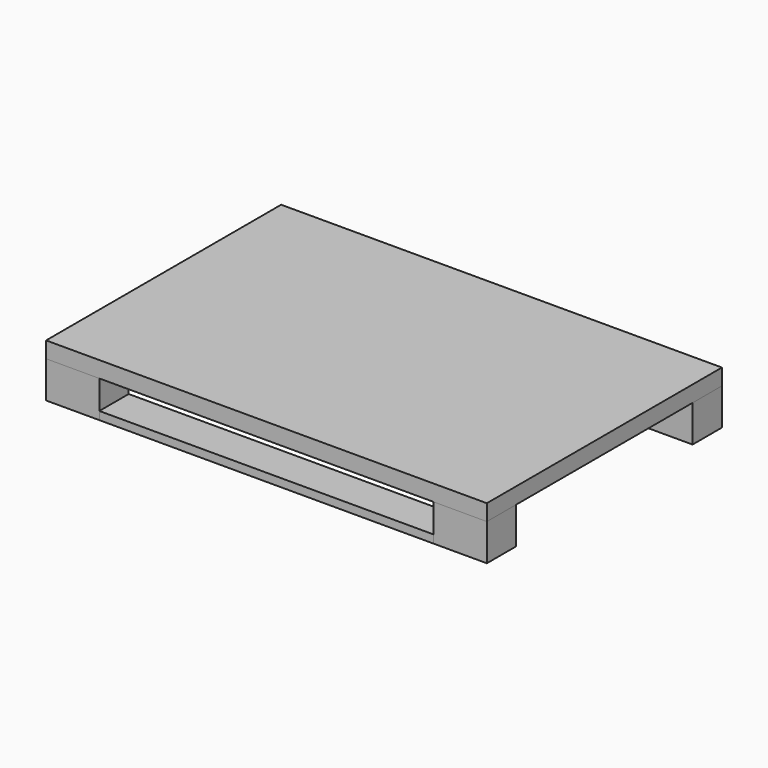
from build123d import *

# Parameters (mm, degrees)
F0_W     = 910
F0_H     = 100
F1_DEPTH = 22
F0_W_2   = 145
F2_DEPTH = 100
F3_W     = 1200
F3_H     = 800
F4_DEPTH = 44


with BuildPart() as f1:
    # F0 (on Top) → F1 (new body)
    with BuildSketch(Plane.XY):
        with Locations((0, 350)):
            Rectangle(F0_W, F0_H)
    extrude(amount=F1_DEPTH)


with BuildPart() as f1b:
    # F0 (on Top) → F1, piece 2 (new body)
    with BuildSketch(Plane.XY):
        with Locations((0, -350)):
            Rectangle(F0_W, F0_H)
    extrude(amount=F1_DEPTH)


with BuildPart() as f2:
    # F0 (on Top) → F2 (new body)
    with BuildSketch(Plane.XY):
        with Locations((527.5, -350)):
            Rectangle(F0_W_2, F0_H)
    extrude(amount=F2_DEPTH)


with BuildPart() as f2b:
    # F0 (on Top) → F2, piece 2 (new body)
    with BuildSketch(Plane.XY):
        with Locations((-527.5, -350)):
            Rectangle(F0_W_2, F0_H)
    extrude(amount=F2_DEPTH)


with BuildPart() as f2c:
    # F0 (on Top) → F2, piece 3 (new body)
    with BuildSketch(Plane.XY):
        with Locations((-527.5, 350)):
            Rectangle(F0_W_2, F0_H)
    extrude(amount=F2_DEPTH)


with BuildPart() as f2d:
    # F0 (on Top) → F2, piece 4 (new body)
    with BuildSketch(Plane.XY):
        with Locations((527.5, 350)):
            Rectangle(F0_W_2, F0_H)
    extrude(amount=F2_DEPTH)


with BuildPart() as f4:
    # F3 (on face) → F4 (new body)
    with BuildSketch(Plane.XY.offset(100)):
        Rectangle(F3_W, F3_H)
    extrude(amount=F4_DEPTH)


solid = Compound([f1.part, f1b.part, f2.part, f2b.part, f2c.part, f2d.part, f4.part])
